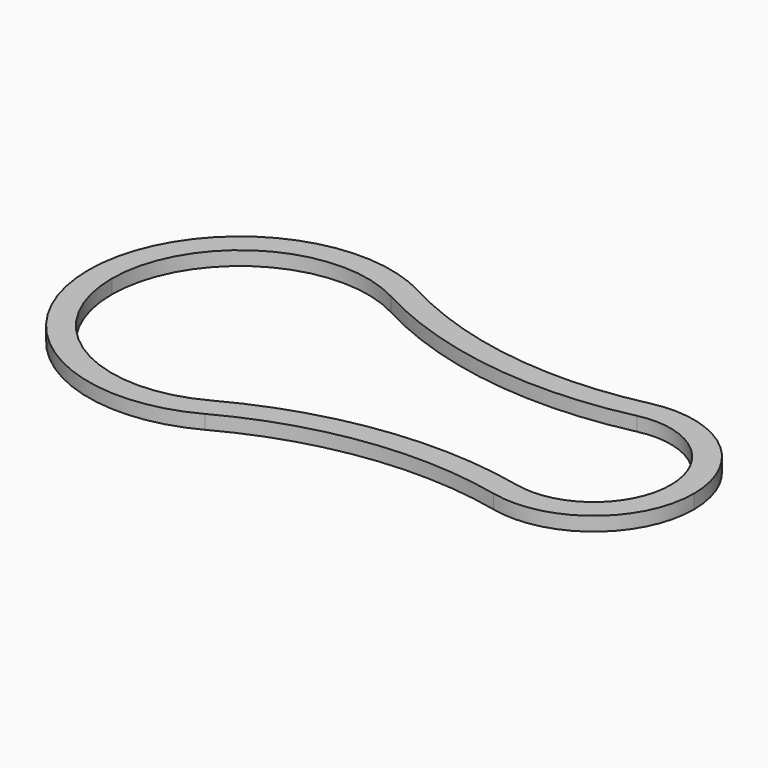
from build123d import *

# Parameters (mm, degrees)
F1_DEPTH = 3


with BuildPart() as f1:
    # F0 (on Top) → F1 (new body)
    with BuildSketch(Plane.XY):
        with BuildLine():
            ThreePointArc((97.5, 0), (89.426248, 16.792435), (71.268757, 20.972967))
            ThreePointArc((71.268757, 20.972967), (42.645894, 19.743038), (15.405524, 28.616775))
            ThreePointArc((15.405524, 28.616775), (-16.666891, 27.900981), (-32.5, 0))
            ThreePointArc((-32.5, 0), (-16.666891, -27.900981), (15.405524, -28.616775))
            ThreePointArc((15.405524, -28.616775), (42.645894, -19.743038), (71.268757, -20.972967))
            ThreePointArc((71.268757, -20.972967), (89.426248, -16.792435), (97.5, 0))
        make_face()
        with BuildLine():
            ThreePointArc((13.035443, 24.214195), (41.968056, 14.789198), (72.369046, 16.095533))
            ThreePointArc((72.369046, 16.095533), (86.303865, 12.887217), (92.5, 0))
            ThreePointArc((92.5, 0), (86.303865, -12.887217), (72.369046, -16.095533))
            ThreePointArc((72.369046, -16.095533), (41.968056, -14.789198), (13.035443, -24.214195))
            ThreePointArc((13.035443, -24.214195), (-14.102754, -23.608523), (-27.5, 0))
            ThreePointArc((-27.5, 0), (-14.102754, 23.608523), (13.035443, 24.214195))
        make_face(mode=Mode.SUBTRACT)
    extrude(amount=F1_DEPTH)


solid = f1.part
